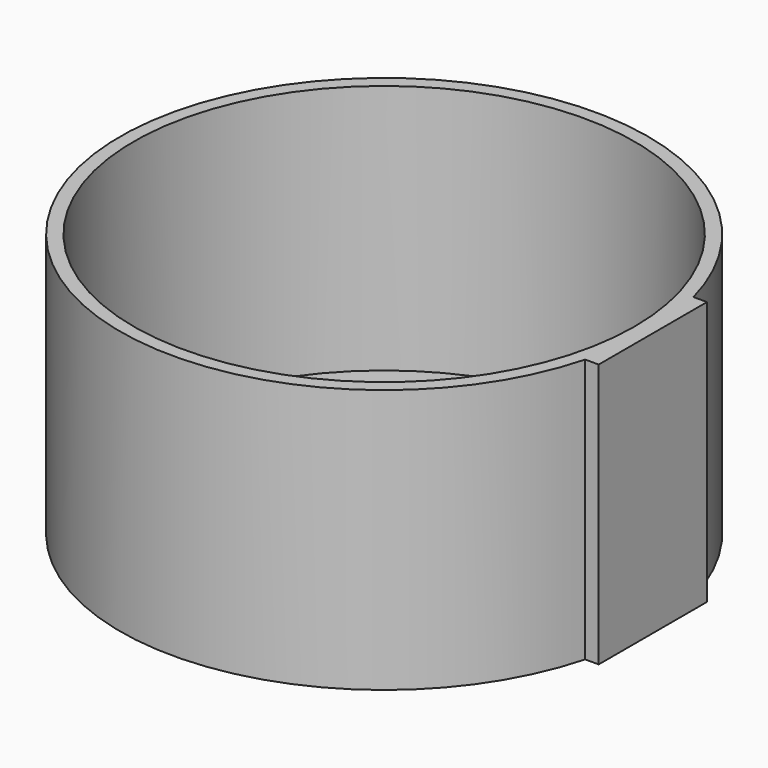
from build123d import *

# Parameters (mm, degrees)
SKETCH002_R  = 3.1
PAD001_DEPTH = 10
PAD_DEPTH    = 39
SKETCH001_R  = 37
POCKET_DEPTH = 37


with BuildPart() as pad001:
    # Sketch002 → Pad001 (new body)
    with BuildSketch(Plane.YZ.offset(29)):
        with Locations((0, 30)):
            Circle(SKETCH002_R)
        with Locations((0, 15)):
            Circle(SKETCH002_R)
    extrude(amount=PAD001_DEPTH)


with BuildPart() as cut:
    # Sketch → Pad (new body)
    with BuildSketch(Plane.XY):
        with BuildLine():
            ThreePointArc((37.696154, 10), (-39, 0), (37.696154, -10))
            Line((39.696154, -10), (37.696154, -10))
            Line((39.696154, 10), (39.696154, -10))
            Line((37.696154, 10), (39.696154, 10))
        make_face()
    extrude(amount=PAD_DEPTH)

    # Sketch001 → Pocket (cut)
    with BuildSketch(Plane.XY.offset(39)):
        Circle(SKETCH001_R)
    extrude(amount=-POCKET_DEPTH, mode=Mode.SUBTRACT)

    # Cut: cut Pad001
    add(pad001.part, mode=Mode.SUBTRACT)


solid = cut.part
